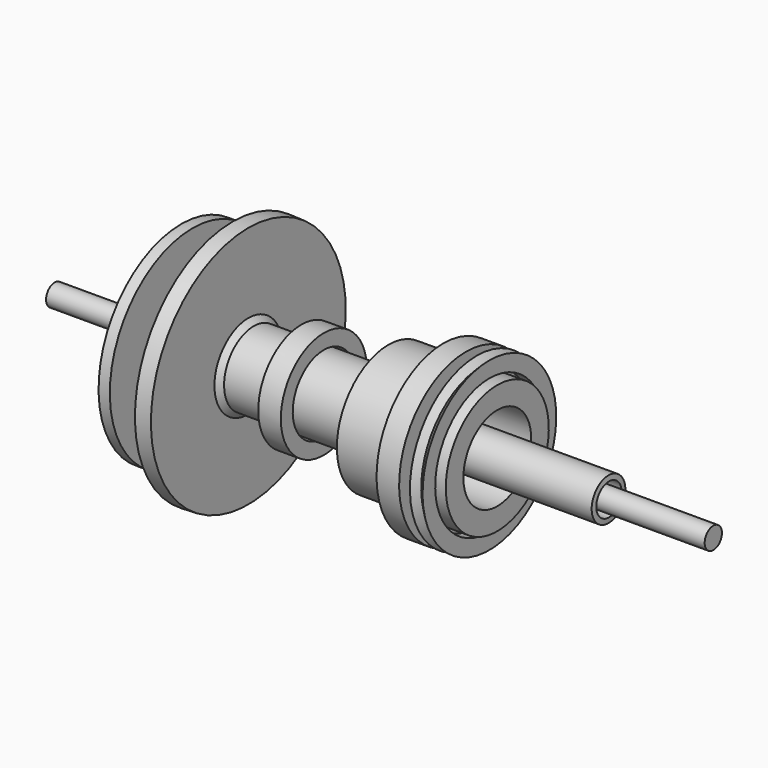
from build123d import *

# Parameters (mm, degrees)
F1_W   = 51.0130375624
F1_H   = 4.6489657834
F1_W_2 = 79.7896310687
F2_W   = 6.8053752184
F2_H   = 3.7915667053
F2_W_2 = 8.5553303361
F2_H_2 = 6.1248380225
F2_W_3 = 9.7219645977
F2_H_3 = 7.1942545474
F2_W_4 = 9.721965529
F2_H_4 = 6.4164958894
F3_W   = 6.6497474909
F3_H   = 1.6888245009
F3_W_2 = 8.3385705948
F3_H_2 = 1.2666182593


with BuildPart() as f4:
    # F0 (on Front) → F4 (revolve)
    with BuildSketch(Plane.XZ):
        Polygon((-44.3958938122, 52.4889007211), (-51.1015243828, 52.7201257646), (-51.1015243828, 9.7116045654), (-44.3958938122, 9.7116045654), (-44.3958938122, 13.1800333038), (20.579347387, 13.1800333038), (20.579347387, 15.9547757357), (25.8976053447, 15.9547757357), (25.8976053447, 18.267063424), (62.8941804171, 18.267063424), (62.8941804171, 27.7474373579), (15.9547757357, 27.7474373579), (15.9547757357, 15.9547757357), (10.4052890092, 15.9547757357), (-42.0836098492, 15.9547757357), (-44.3958938122, 18.267063424), align=None)
    revolve(axis=Axis((-102.3436561227, 0, 0), (1, 0, 0)))


with BuildPart() as f4b:
    # F1 (on Front) → F4, piece 2 (revolve)
    with BuildSketch(Plane.XZ):
        with Locations((-102.3436561227, 2.3244828917)):
            Rectangle(F1_W, F1_H)
    revolve(axis=Axis((-102.3436561227, 0, 0), (1, 0, 0)))


with BuildPart() as f4c:
    # F1 (on Front) → F4, piece 3 (revolve)
    with BuildSketch(Plane.XZ):
        with Locations((116.0967834294, 2.3244828917)):
            Rectangle(F1_W_2, F1_H)
    revolve(axis=Axis((-102.3436561227, 0, 0), (1, 0, 0)))


with BuildPart() as f4d:
    # F2 (on Front) → F4, piece 4 (revolve)
    with BuildSketch(Plane.XZ):
        Polygon((-27.9981195927, 9.0771161485), (-34.8034948111, 9.0771161485), (-68.4414952993, 9.0771161485), (-68.4414952993, 44.5622913539), (-73.3024775982, 44.5622913539), (-73.3024775982, 37.1735990047), (-70.3858882189, 37.1735990047), (-70.3858882189, 6.8410644308), (111.0259965062, 6.8410644308), (110.8315512538, 9.0771161485), (66.1105066538, 9.0771161485), (29.7503583133, 9.0771161485), (21.1950279772, 9.0771161485), align=None)
        with Locations((-31.4008072019, 10.9728995012)):
            Rectangle(F2_W, F2_H)
        with Locations((25.4726931453, 12.1395351598)):
            Rectangle(F2_W_2, F2_H_2)
    revolve(axis=Axis((-102.3436561227, 0, 0), (1, 0, 0)))


with BuildPart() as f4e:
    # F2 (on Front) → F4, piece 5 (revolve)
    with BuildSketch(Plane.XZ):
        with Locations((44.527746737, 32.4098337442)):
            Rectangle(F2_W_3, F2_H_3)
    revolve(axis=Axis((-102.3436561227, 0, 0), (1, 0, 0)))


with BuildPart() as f4f:
    # F2 (on Front) → F4, piece 6 (revolve)
    with BuildSketch(Plane.XZ):
        with Locations((-16.7206390761, 19.965717569)):
            Rectangle(F2_W_4, F2_H_4)
    revolve(axis=Axis((-102.3436561227, 0, 0), (1, 0, 0)))


with BuildPart() as f4g:
    # F3 (on Front) → F4, piece 7 (revolve)
    with BuildSketch(Plane.XZ):
        with Locations((-47.9526557028, 5.8408768382)):
            Rectangle(F3_W, F3_H)
    revolve(axis=Axis((-102.3436561227, 0, 0), (1, 0, 0)))


with BuildPart() as f4h:
    # F2 (on Front) → F4, piece 8 (revolve)
    with BuildSketch(Plane.XZ):
        Polygon((56.5829873085, 33.0903716385), (54.0552735329, 36.0069610178), (54.0552735329, 29.2015857995), (59.4995766878, 29.2015857995), (59.4995766878, 36.0069610178), align=None)
    revolve(axis=Axis((-102.3436561227, 0, 0), (1, 0, 0)))


with BuildPart() as f4i:
    # F3 (on Front) → F4, piece 9 (revolve)
    with BuildSketch(Plane.XZ):
        with Locations((25.6167519838, 5.8408766054)):
            Rectangle(F3_W_2, F3_H_2)
    revolve(axis=Axis((-102.3436561227, 0, 0), (1, 0, 0)))


solid = Compound([f4.part, f4b.part, f4c.part, f4d.part, f4e.part, f4f.part, f4g.part, f4h.part, f4i.part])
